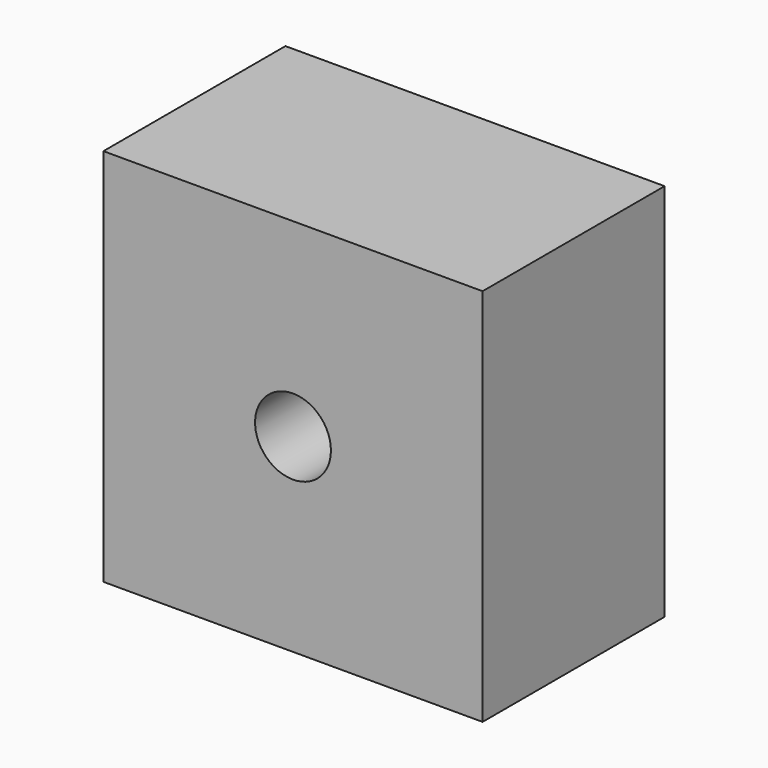
from build123d import *

# Parameters (mm, degrees)
F0_W     = 254
F0_H     = 254
F0_R     = 25.4
F1_DEPTH = 127
F2_W     = 254
F2_H     = 254
F3_DEPTH = 25.4


with BuildPart() as f1:
    # F0 (on Front) → F1 (new body)
    with BuildSketch(Plane.XZ):
        Rectangle(F0_W, F0_H)
        Circle(F0_R, mode=Mode.SUBTRACT)
    extrude(amount=F1_DEPTH)

    # F2 (on face) → F3 (join)
    with BuildSketch(Plane(origin=(0, 0, 0), x_dir=(-1, 0, 0), z_dir=(0, 1, 0))):
        Rectangle(F2_W, F2_H)
    extrude(amount=F3_DEPTH)


solid = f1.part
